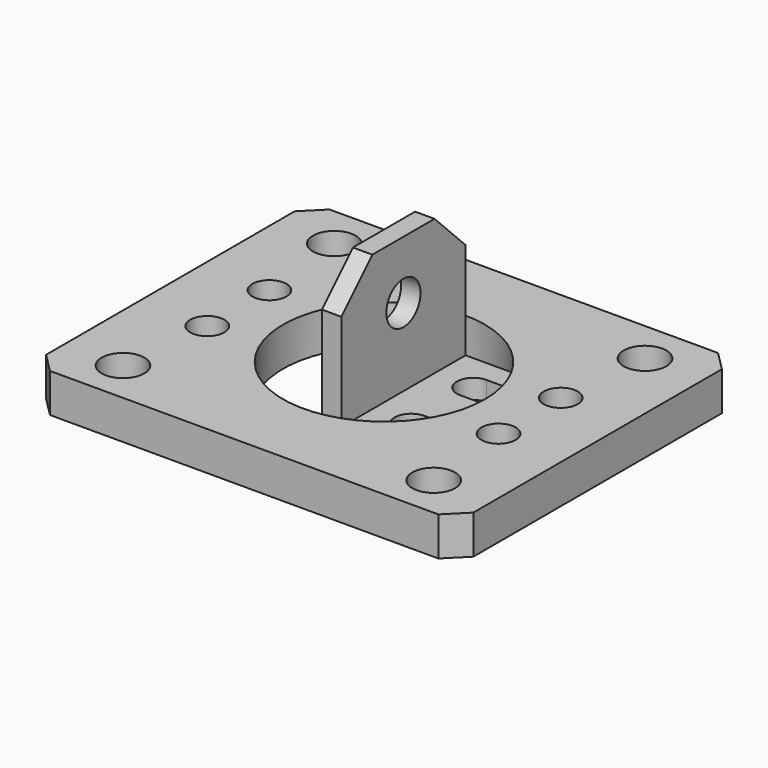
from build123d import *

# Parameters (mm, degrees)
F0_W      = 110
F0_H      = 90
F0_R      = 26
F1_DEPTH  = 10
F3_D      = 11
F5_DEPTH  = 20
F7_D      = 11
F8_SIZE   = 10
F10_DEPTH = 25
F12_D     = 8.8
F13_SIZE  = 5


with BuildPart() as f1:
    # F0 (on Top) → F1 (new body)
    with BuildSketch(Plane.XY):
        Rectangle(F0_W, F0_H)
        Circle(F0_R, mode=Mode.SUBTRACT)
    extrude(amount=F1_DEPTH)

    # F3 (through all)
    with Locations(Plane.XY.offset(10)):
        with Locations((-40, 34), (-40, -34), (40, -34), (40, 34)):
            Hole(F3_D / 2)

    # F12 (through all)
    with Locations(Plane.XY.offset(10)):
        with Locations((-37.5, 10), (-37.5, -10), (37.5, -10), (37.5, 10)):
            Hole(F12_D / 2)

    # F13
    f13_edges = [f1.edges().sort_by_distance(p)[0] for p in [
        (-55, 45, 5),
        (55, 45, 5),
        (55, -45, 5),
        (-55, -45, 5),
    ]]
    chamfer(f13_edges, length=F13_SIZE)


with BuildPart() as f5:
    # F4 (on Front) → F5 (new body, symmetric)
    with BuildSketch(Plane.XZ):
        Polygon((0, 40), (0, 0), (30, 0), (30, 5), (5, 5), (5, 40), align=None)
    extrude(amount=F5_DEPTH, both=True)

    # F7 (through all)
    with Locations(Plane(origin=(0, 0, 0), x_dir=(0, -1, 0), z_dir=(-1, 0, 0))):
        with Locations((0, 25)):
            Hole(F7_D / 2)

    # F8
    f8_edges = [f5.edges().sort_by_distance(p)[0] for p in [
        (2.5, -20, 40),
        (2.5, 20, 40),
    ]]
    chamfer(f8_edges, length=F8_SIZE)

    # F9 (on face) → F10 (cut)
    with BuildSketch(Plane.XY.offset(5)):
        with BuildLine():
            Line((15, 5.75), (20, 5.75))
            ThreePointArc((20, 5.75), (24.25, 10), (20, 14.25))
            Line((20, 14.25), (15, 14.25))
            ThreePointArc((15, 14.25), (10.75, 10), (15, 5.75))
        make_face()
        with BuildLine():
            Line((20, -5.75), (15, -5.75))
            ThreePointArc((15, -5.75), (10.75, -10), (15, -14.25))
            Line((15, -14.25), (20, -14.25))
            ThreePointArc((20, -14.25), (24.25, -10), (20, -5.75))
        make_face()
    extrude(amount=-F10_DEPTH, mode=Mode.SUBTRACT)


solid = Compound([f1.part, f5.part])
